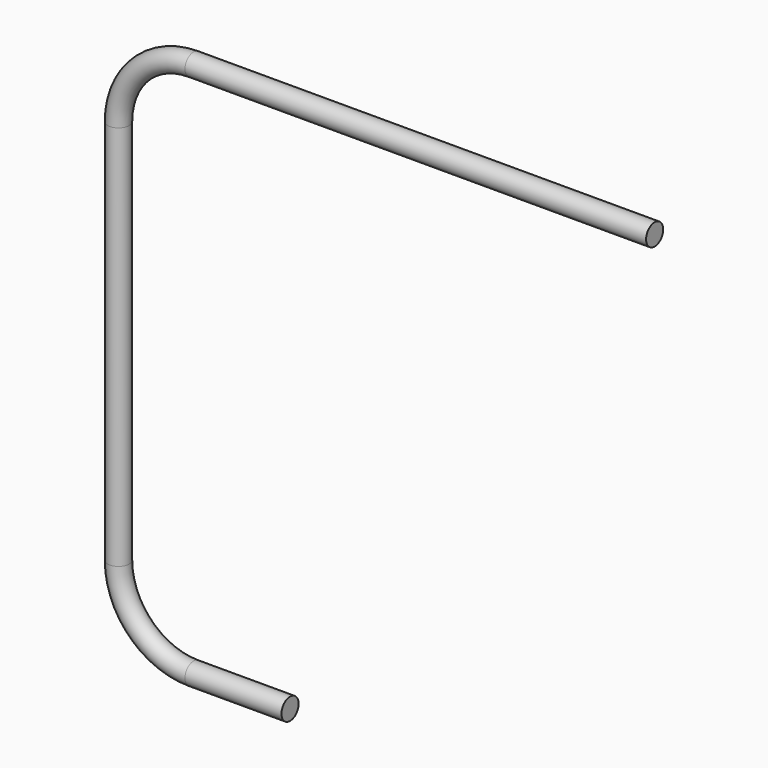
from build123d import *

# Parameters (mm, degrees)
F1_R = 5


with BuildPart() as f2:
    # F2: sweep along a path in F0
    with BuildLine(Plane.XZ) as f2_path:
        Line((0, 0), (-215, 0))
        ThreePointArc((-215, 0), (-239.748737, -10.251263), (-250, -35))
        Line((-250, -35), (-250, -215))
        ThreePointArc((-250, -215), (-239.748737, -239.748737), (-215, -250))
        Line((-215, -250), (-170, -250))
    # F1 (on Right) → F2 (sweep)
    with BuildSketch(Plane.YZ):
        Circle(F1_R)
    sweep(path=f2_path.line)


solid = f2.part
